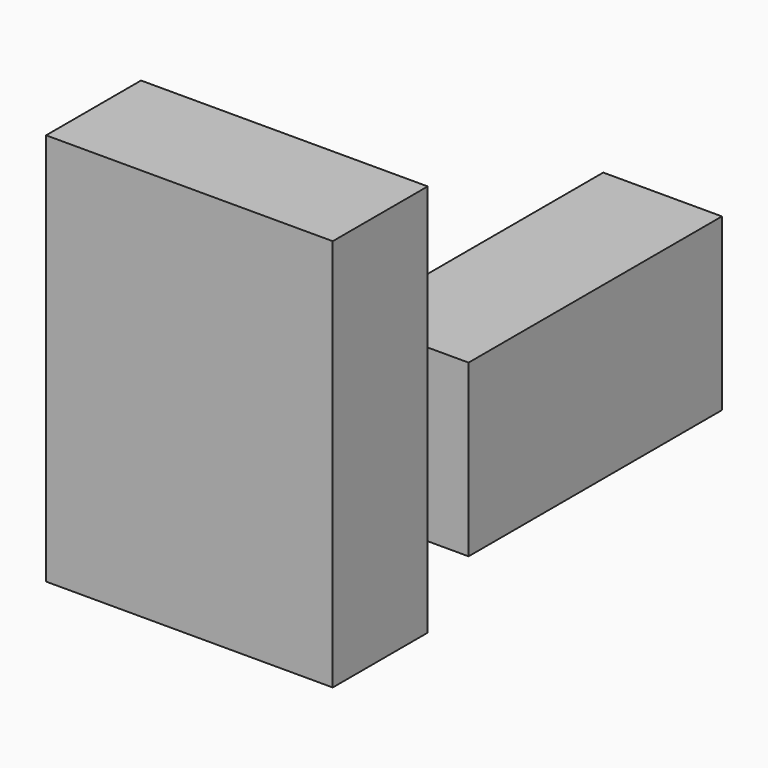
from build123d import *

# Parameters (mm, degrees)
F0_W     = 61.35112
F0_H     = 84.087074
F1_DEPTH = 25.4
F2_W     = 67.771494
F2_H     = 36.505543
F3_DEPTH = 25.4


with BuildPart() as f1:
    # F0 (on Front) → F1 (new body)
    with BuildSketch(Plane.XZ):
        Rectangle(F0_W, F0_H)
    extrude(amount=F1_DEPTH)


with BuildPart() as f3:
    # F2 (on Right) → F3 (new body)
    with BuildSketch(Plane.YZ):
        with Locations((51.423311, -18.252771)):
            Rectangle(F2_W, F2_H)
    extrude(amount=F3_DEPTH)


solid = Compound([f1.part, f3.part])
